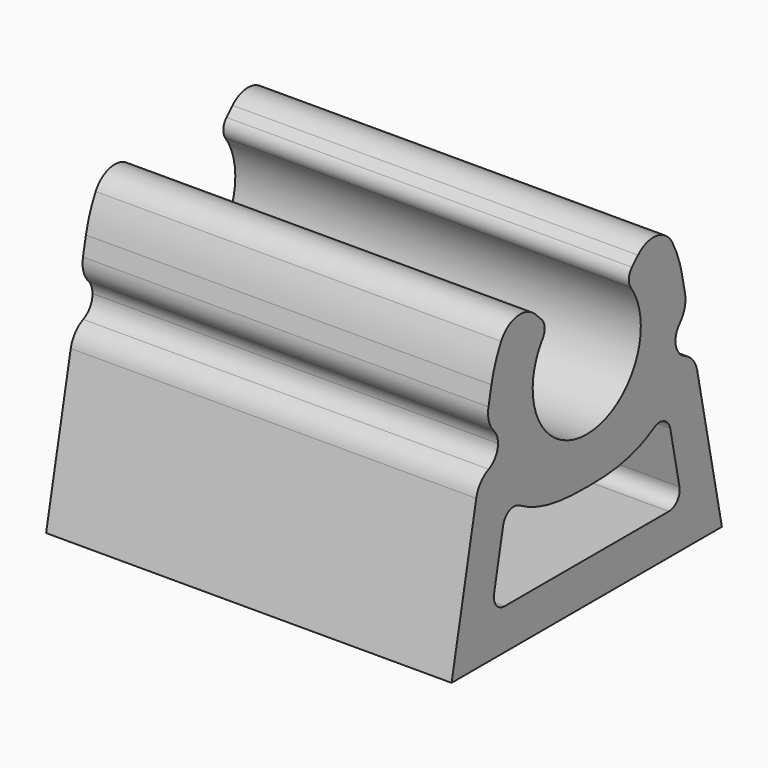
from build123d import *

# Parameters (mm, degrees)
F1_DEPTH = 30
F2_R     = 1
F3_R     = 2
F5_DEPTH = 30
F6_R     = 1
F8_DEPTH = 30
F9_R     = 2


with BuildPart() as f1:
    # F0 (on Right) → F1 (new body)
    with BuildSketch(Plane.YZ):
        with BuildLine():
            ThreePointArc((-8.9644660941, 39.6406786749), (-12.5, 31.105144769), (-16.0355339059, 39.6406786749))
            Line((-16.0355339059, 39.6406786749), (-18.8639610307, 42.4691057996))
            ThreePointArc((-18.8639610307, 42.4691057996), (-20.4235610781, 40.373303604), (-21.3155532551, 37.9178832515))
            Line((-21.3155532551, 37.9178832515), (-25, 20))
            Line((-25, 20), (0, 20))
            Line((0, 20), (-3.6844467449, 37.9178832515))
            ThreePointArc((-3.6844467449, 37.9178832515), (-4.5764389219, 40.373303604), (-6.1360389693, 42.4691057996))
            Line((-6.1360389693, 42.4691057996), (-8.9644660941, 39.6406786749))
        make_face()
    extrude(amount=F1_DEPTH)

    # F2
    f2_edges = [f1.edges().sort_by_distance(p)[0] for p in [
        (15, -8.964466, 39.640679),
        (15, -16.035534, 39.640679),
    ]]
    fillet(f2_edges, radius=F2_R)

    # F3
    f3_edges = [f1.edges().sort_by_distance(p)[0] for p in [
        (15, -6.136039, 42.469106),
        (15, -18.863961, 42.469106),
    ]]
    fillet(f3_edges, radius=F3_R)

    # F4 (on face) → F5 (cut, through all)
    with BuildSketch(Plane.YZ.offset(30)):
        with BuildLine():
            Line((-19.910434928, 29.8565414207), (-21.3203426366, 23))
            Line((-21.3203426366, 23), (-3.6796573634, 23))
            Line((-3.6796573634, 23), (-5.089565072, 29.8565414207))
            add(Edge.make_bspline(
                [(-19.910434928, 29.8565414207), (-17.6130099069, 27.8782596362), (-12.4507025539, 27.4679496916), (-7.4855849853, 27.8458202643), (-5.089565072, 29.8565414207)],
                knots=[0, 0, 0, 0, 0.5, 1, 1, 1, 1], degree=3))
        make_face()
    extrude(amount=-F5_DEPTH, mode=Mode.SUBTRACT)

    # F6
    f6_edges = [f1.edges().sort_by_distance(p)[0] for p in [
        (15, -21.320343, 23),
        (15, -19.910435, 29.856541),
        (15, -3.679657, 23),
        (15, -5.089565, 29.856541),
    ]]
    fillet(f6_edges, radius=F6_R)

    # F7 (on face) → F8 (cut, through all)
    with BuildSketch(Plane.YZ.offset(30)):
        with BuildLine():
            ThreePointArc((-3.1383199654, 35.2620066566), (-4.2638904774, 33.5537090418), (-2.5555928626, 32.4281385298))
            Line((-2.5555928626, 32.4281385298), (-3.1383199654, 35.2620066566))
        make_face()
        with BuildLine():
            ThreePointArc((-22.4444071374, 32.4281385298), (-21.2389555005, 32.7238956084), (-20.7064631841, 33.8450725932))
            ThreePointArc((-20.7064631841, 33.8450725932), (-21.0318666012, 34.7591606787), (-21.8616800346, 35.2620066566))
            Line((-21.8616800346, 35.2620066566), (-22.4444071374, 32.4281385298))
        make_face()
    extrude(amount=-F8_DEPTH, mode=Mode.SUBTRACT)

    # F9
    f9_edges = [f1.edges().sort_by_distance(p)[0] for p in [
        (15, -21.86168, 35.262007),
        (15, -22.444407, 32.428139),
        (15, -3.13832, 35.262007),
        (15, -2.555593, 32.428139),
    ]]
    fillet(f9_edges, radius=F9_R)


solid = f1.part
